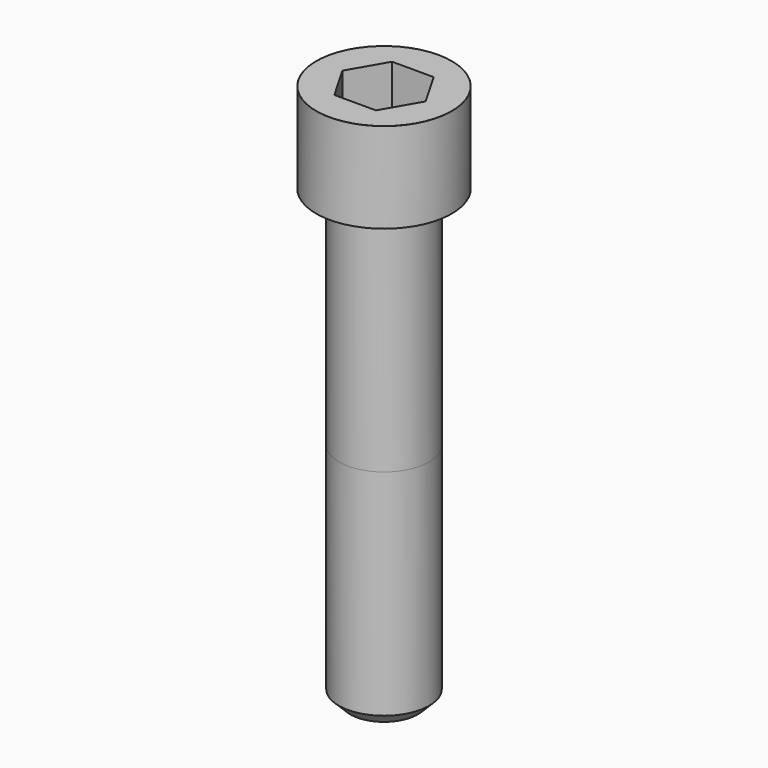
from build123d import *

# Parameters (mm, degrees)
POCKET_DEPTH = 19.15


with BuildPart() as part:
    # Sketch → Revolve (revolve)
    with BuildSketch(Plane.YZ):
        with BuildLine():
            Line((11.999, 0), (18, 0))
            Line((18, 0), (18, 23.97229))
            ThreePointArc((18, 23.97229), (17.991884, 23.991884), (17.97229, 24))
            Line((17.97229, 24), (0, 24))
            Line((0, -120), (0, 24))
            Line((9, -120), (0, -120))
            Line((12, -117), (9, -120))
            Line((12, -60), (12, -117))
            Line((11.999, 0), (12, -60))
        make_face()
    revolve(axis=Axis((0, 0, 0), (0, 0, 1)))

    # Sketch001 → Pocket (cut)
    with BuildSketch(Plane.XY.offset(24)):
        Polygon((11.056258, 0), (5.528129, 9.575), (-5.528129, 9.575), (-11.056258, 0), (-5.528129, -9.575), (5.528129, -9.575), align=None)
    extrude(amount=-POCKET_DEPTH, mode=Mode.SUBTRACT)


solid = part.part
